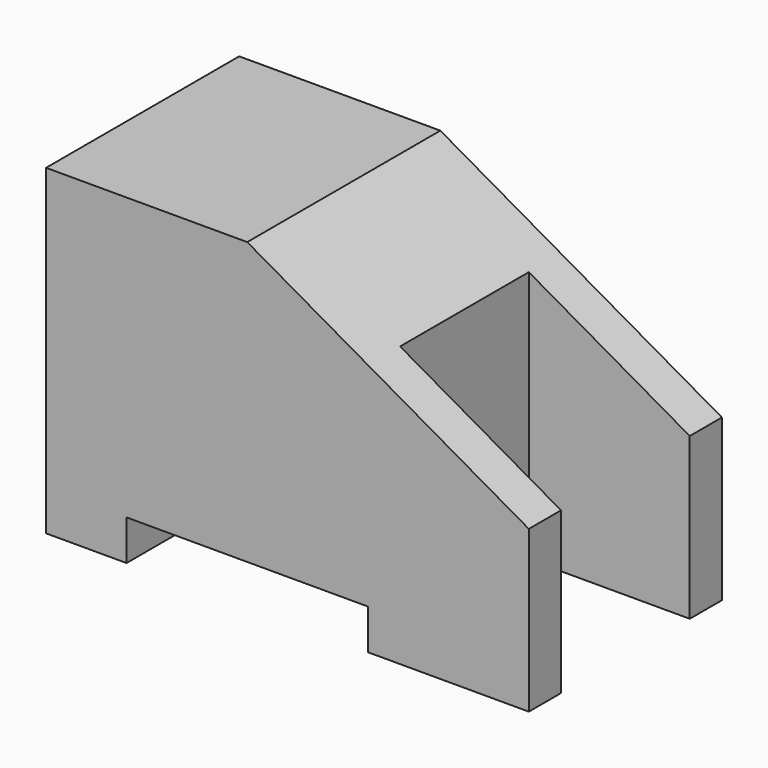
from build123d import *

# Parameters (mm, degrees)
F1_DEPTH = 15
F2_W     = 10
F2_H     = 10
F3_DEPTH = 20.001


with BuildPart() as f1:
    # F0 (on Front) → F1 (new body)
    with BuildSketch(Plane.XZ):
        Polygon((0, 20), (0, 0), (5, 0), (5, 2.5), (20, 2.5), (20, 0), (30, 0), (30, 10), (12.5, 20), align=None)
    extrude(amount=F1_DEPTH)

    # F2 (on face) → F3 (cut, through all)
    with BuildSketch(Plane(origin=(0, 0, 0), x_dir=(1, 0, 0), z_dir=(0, 0, -1))):
        with Locations((25, 7.5)):
            Rectangle(F2_W, F2_H)
    extrude(amount=-F3_DEPTH, mode=Mode.SUBTRACT)


solid = f1.part
